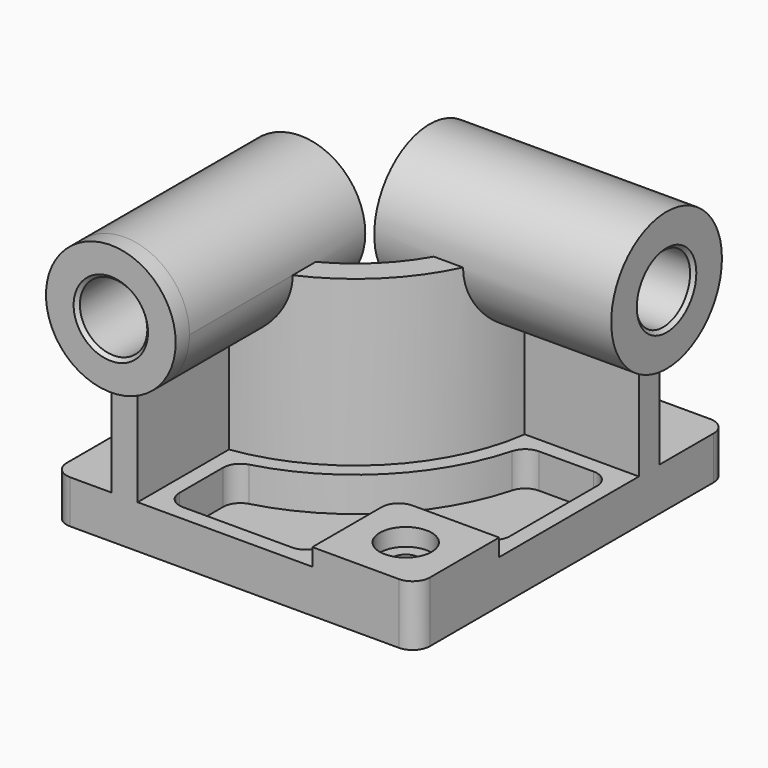
from build123d import *

# Parameters (mm, degrees)
F0_W            = 210
F0_H            = 225
F1_DEPTH        = 25
F3_DEPTH        = 95
F4_R            = 37.5
F5_DEPTH        = 10
F5_DEPTH_BACK   = 127
F6_R            = 40
F7_DEPTH        = 10
F7_DEPTH_BACK   = 127
F8_W            = 60
F8_H            = 60
F9_DEPTH        = 10
F10_R           = 10
F12_DEPTH       = 20
F14_D           = 15
F14_CBORE_D     = 30
F14_CBORE_DEPTH = 10.1
F15_R           = 10
F16_R           = 10
F17_R           = 19.5
F18_DEPTH       = 235.001
F19_R           = 19.5
F20_DEPTH       = 220.001
F21_SIZE        = 2
F22_R           = 10


with BuildPart() as f1:
    # F0 (on Top) → F1 (new body)
    with BuildSketch(Plane.XY):
        Rectangle(F0_W, F0_H)
    extrude(amount=F1_DEPTH)

    # F2 (on face) → F3 (join)
    with BuildSketch(Plane.XY.offset(25)):
        with BuildLine():
            Line((-71, -32.5), (-71, -112.5))
            Line((-71, -112.5), (-56.000001, -112.5))
            Line((-56.000001, -112.5), (-56.000001, -46.481815))
            ThreePointArc((-56.000001, -46.481815), (7.488852, -14.988852), (38.981815, 48.500001))
            Line((38.981815, 48.500001), (105, 48.500001))
            Line((105, 48.500001), (105, 63.5))
            Line((105, 63.5), (25, 63.5))
            ThreePointArc((25, 63.5), (-3.117749, -4.382251), (-71, -32.5))
        make_face()
    extrude(amount=F3_DEPTH)

    # F4 (on face) → F5 (join, two sides)
    with BuildSketch(Plane.XZ.offset(112.5)) as f5_sk:
        with Locations((-63.500001, 120)):
            Circle(F4_R)
    extrude(amount=F5_DEPTH)
    extrude(f5_sk.sketch, amount=-F5_DEPTH_BACK)

    # F6 (on face) → F7 (join, two sides)
    with BuildSketch(Plane.YZ.offset(105)) as f7_sk:
        with Locations((56.000001, 120)):
            Circle(F6_R)
    extrude(amount=F7_DEPTH)
    extrude(f7_sk.sketch, amount=-F7_DEPTH_BACK)

    # F8 (on face) → F9 (join)
    with BuildSketch(Plane.XY.offset(25)):
        with Locations((75, -82.5)):
            Rectangle(F8_W, F8_H)
    extrude(amount=F9_DEPTH)

    # F10
    f10_edges = [f1.edges().sort_by_distance(p)[0] for p in [
        (45, -52.5, 30),
    ]]
    fillet(f10_edges, radius=F10_R)

    # F11 (on face) → F12 (cut)
    with BuildSketch(Plane.XY.offset(25)):
        with BuildLine():
            ThreePointArc((46.575506, 39.500003), (13.852812, -21.352812), (-47.000003, -54.075506))
            Line((-47.000003, -54.075506), (-47.000003, -103.500001))
            Line((-47.000003, -103.500001), (36.000001, -103.500001))
            Line((36.000001, -103.500001), (36.000001, -62.5))
            ThreePointArc((36.000001, -62.5), (41.564972, -49.064972), (55, -43.500001))
            Line((55, -43.500001), (96.000001, -43.500001))
            Line((96.000001, -43.500001), (96.000001, 39.500003))
            Line((96.000001, 39.500003), (46.575506, 39.500003))
        make_face()
    extrude(amount=-F12_DEPTH, mode=Mode.SUBTRACT)

    # F14 (through all)
    with Locations(Plane.XY.offset(35)):
        with Locations((75, -82.5)):
            CounterBoreHole(F14_D / 2, F14_CBORE_D / 2, F14_CBORE_DEPTH)

    # F15
    f15_edges = [f1.edges().sort_by_distance(p)[0] for p in [
        (-47.000003, -54.075506, 15),
        (46.575506, 39.500003, 15),
        (-47.000003, -103.500001, 15),
        (96.000001, 39.500003, 15),
    ]]
    fillet(f15_edges, radius=F15_R)

    # F16
    f16_edges = [f1.edges().sort_by_distance(p)[0] for p in [
        (96.000001, -43.500001, 15),
        (36.000001, -103.500001, 15),
    ]]
    fillet(f16_edges, radius=F16_R)

    # F17 (on face) → F18 (cut, through all)
    with BuildSketch(Plane.XZ.offset(122.5)):
        with Locations((-63.500001, 120)):
            Circle(F17_R)
    extrude(amount=-F18_DEPTH, mode=Mode.SUBTRACT)

    # F19 (on face) → F20 (cut, through all)
    with BuildSketch(Plane.YZ.offset(115)):
        with Locations((56.000001, 120)):
            Circle(F19_R)
    extrude(amount=-F20_DEPTH, mode=Mode.SUBTRACT)

    # F21
    f21_edges = [f1.edges().sort_by_distance(p)[0] for p in [
        (115, 36.500001, 120),
        (-83.000001, -122.5, 120),
        (-22, 36.500001, 120),
        (-83.000001, 14.5, 120),
    ]]
    chamfer(f21_edges, length=F21_SIZE)

    # F22
    f22_edges = [f1.edges().sort_by_distance(p)[0] for p in [
        (-105, -112.5, 12.5),
        (105, -112.5, 17.5),
        (105, 112.5, 12.5),
        (-105, 112.5, 12.5),
    ]]
    fillet(f22_edges, radius=F22_R)


solid = f1.part
